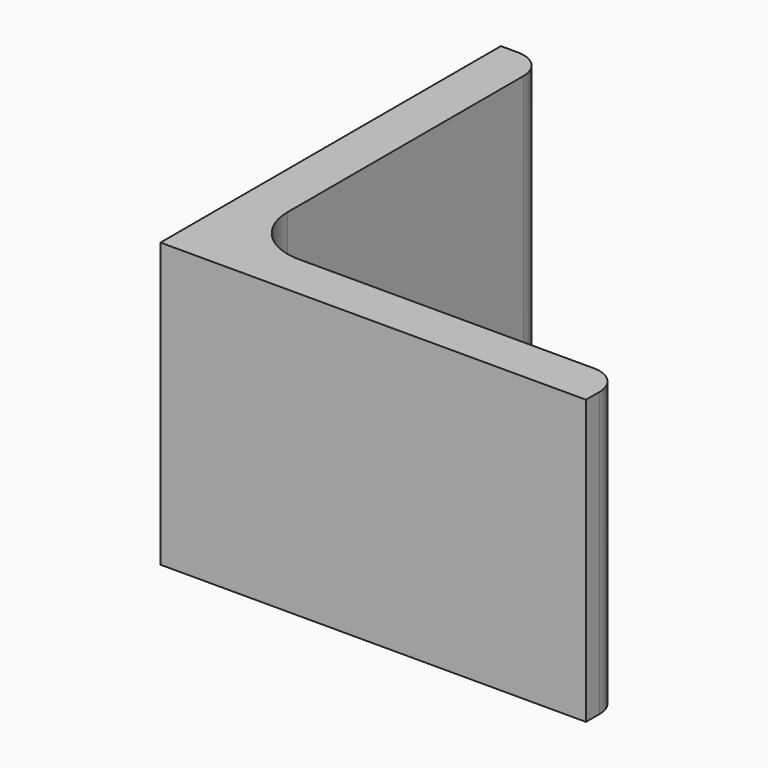
from build123d import *

# Parameters (mm, degrees)
EXTRUDE_DEPTH = 50


with BuildPart() as part:
    # Sketch → Extrude (new body)
    with BuildSketch(Plane.XY):
        with BuildLine():
            Line((0, 0), (75, 0))
            Line((75, 0), (75, 3))
            ThreePointArc((75, 3), (73.535534, 6.535534), (70, 8))
            Line((70, 8), (18, 8))
            ThreePointArc((8, 18), (10.928932, 10.928932), (18, 8))
            Line((8, 70), (8, 18))
            ThreePointArc((8, 70), (6.535534, 73.535534), (3, 75))
            Line((0, 75), (3, 75))
            Line((0, 0), (0, 75))
        make_face()
    extrude(amount=EXTRUDE_DEPTH)


solid = part.part
